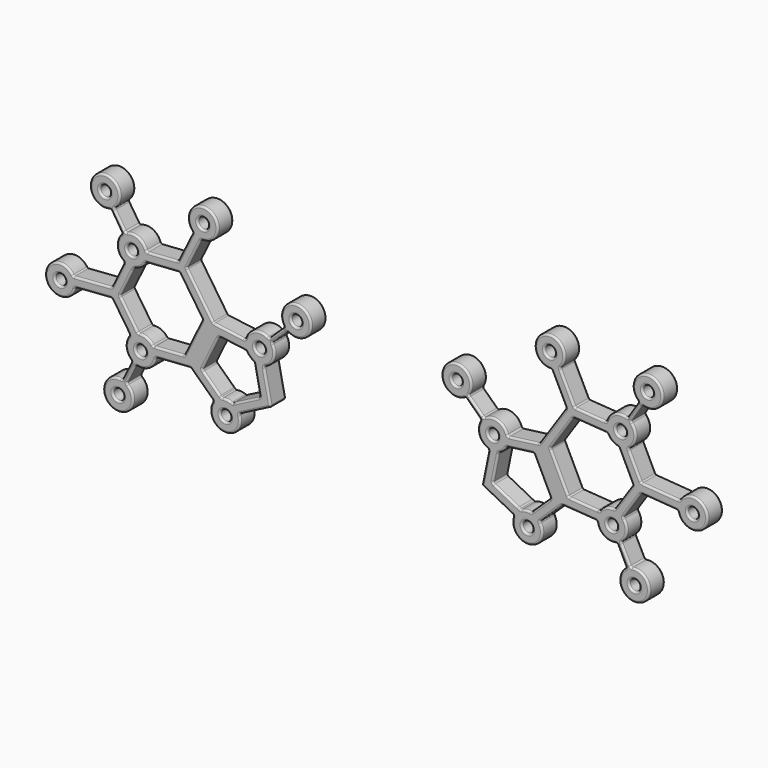
from build123d import *

# Parameters (mm, degrees)
F0_R     = 0.704965505
F1_DEPTH = 2.54
F2_DEPTH = 2.54
F3_R     = 0.254
F3_2_R   = 0.254


with BuildPart() as f1:
    # F0 (on Front) → F1 (new body)
    with BuildSketch(Plane.XZ):
        with BuildLine():
            Line((-29.0546179845, 20.0484573545), (-24.4870673378, 20.3635666822))
            Line((-24.4870673378, 20.3635666822), (-21.4639846236, 17.4907874316))
            ThreePointArc((-21.4639846236, 17.4907874316), (-20.1111106316, 14.3380148568), (-18.0853251368, 17.1068478376))
            Line((-18.0853251368, 17.1068478376), (-13.9003973454, 19.2569047213))
            Line((-13.9003973454, 19.2569047213), (-14.8002809236, 23.6813351185))
            ThreePointArc((-14.8002809236, 23.6813351185), (-13.4840307812, 24.9492545136), (-13.7715209386, 26.7541044905))
            Line((-13.7715209386, 26.7541044905), (-11.7185432825, 28.7257985383))
            ThreePointArc((-11.7185432825, 28.7257985383), (-9.1898139929, 31.7482130115), (-12.1061851962, 29.0978847163))
            Line((-12.1061851962, 29.0978847163), (-14.1473321742, 27.1375529342))
            ThreePointArc((-14.1473321742, 27.1375529342), (-16.0227457961, 27.4355759245), (-17.2825167385, 26.014670886))
            Line((-17.2825167385, 26.014670886), (-21.4583833257, 26.5586029436))
            Line((-21.4583833257, 26.5586029436), (-24.9750111076, 31.7827321961))
            Line((-24.9750111076, 31.7827321961), (-23.049601348, 35.6694080957))
            ThreePointArc((-23.049601348, 35.6694080957), (-22.021105402, 39.4328639982), (-24.1605624178, 36.1703300262))
            Line((-24.1605624178, 36.1703300262), (-26.1158296493, 32.2233831553))
            Line((-26.1158296493, 32.2233831553), (-30.2684896427, 31.9368965896))
            ThreePointArc((-30.2684896427, 31.9368965896), (-31.3282269677, 33.2519979714), (-33.0171054253, 33.2669778887))
            ThreePointArc((-33.0171054253, 33.2669778887), (-33.256062613, 33.1358074968), (-33.4746822584, 32.9729834816))
            ThreePointArc((-33.4746822584, 32.9729834816), (-34.1553853318, 31.2957471273), (-33.1838735227, 29.7684477897))
            Line((-33.1838735227, 29.7684477897), (-34.8542202142, 26.3518291258))
            Line((-34.8542202142, 26.3518291258), (-39.9217636031, 25.9722335116))
            ThreePointArc((-39.9217636031, 25.9722335116), (-43.5800368557, 24.6330217897), (-39.6850516367, 24.7074621736))
            Line((-39.6850516367, 24.7074621736), (-34.8542202142, 25.070198792))
            Line((-34.8542202142, 25.070198792), (-32.4748710478, 21.5355547088))
            ThreePointArc((-32.4748710478, 21.5355547088), (-32.9903716251, 20.0103275207), (-32.1991963938, 18.6081504372))
            Line((-32.1991963938, 18.6081504372), (-33.4820382589, 16.0704123418))
            ThreePointArc((-33.4820382589, 16.0704123418), (-34.783384257, 12.3548348603), (-32.8975393524, 15.8106424973))
            Line((-32.8975393524, 15.8106424973), (-31.6654895103, 18.3275733099))
            ThreePointArc((-31.6654895103, 18.3275733099), (-29.9372170578, 18.5465007129), (-29.0546179845, 20.0484573545))
        make_face()
        with Locations((-33.9812934399, 14.1595909372)):
            Circle(F0_R, mode=Mode.SUBTRACT)
        with Locations((-19.8881171548, 16.3003522604)):
            Circle(F0_R, mode=Mode.SUBTRACT)
        with Locations((-31.0241039842, 20.195491612)):
            Circle(F0_R, mode=Mode.SUBTRACT)
        with Locations((-41.63877666, 24.9963440001)):
            Circle(F0_R, mode=Mode.SUBTRACT)
        with BuildLine():
            Line((-22.9370217788, 20.6425594324), (-20.718015255, 25.1814369859))
            Line((-20.718015255, 25.1814369859), (-17.4430944579, 24.7548586051))
            Line((-17.4430944579, 24.7548586051), (-17.1339008299, 24.7145842518))
            ThreePointArc((-17.1339008299, 24.7145842518), (-16.7108197065, 24.1384913383), (-16.1103942981, 23.750715616))
            Line((-16.1103942981, 23.750715616), (-16.0663684245, 23.5342549337))
            Line((-16.0663684245, 23.5342549337), (-15.3367139519, 19.9467848362))
            Line((-15.3367139519, 19.9467848362), (-18.6656891957, 18.2364838476))
            Line((-18.6656891957, 18.2364838476), (-19.0003562418, 18.0645446358))
            ThreePointArc((-19.0003562418, 18.0645446358), (-19.6768797316, 18.2639899375), (-20.3803440868, 18.2129961957))
            Line((-20.3803440868, 18.2129961957), (-20.5891363814, 18.4114076282))
            Line((-20.5891363814, 18.4114076282), (-22.9370217788, 20.6425594324))
        make_face(mode=Mode.SUBTRACT)
        with Locations((-15.356823802, 25.5762636662)):
            Circle(F0_R, mode=Mode.SUBTRACT)
        with BuildLine():
            Line((-33.7541915634, 25.7103296629), (-33.7132706146, 25.7940316142))
            Line((-33.7132706146, 25.7940316142), (-32.0429239231, 29.2106502781))
            Line((-32.0429239231, 29.2106502781), (-31.8907859632, 29.521841599))
            ThreePointArc((-31.8907859632, 29.521841599), (-30.997520947, 29.8987843289), (-30.3912787721, 30.6554075087))
            Line((-30.3912787721, 30.6554075087), (-29.7189337303, 30.7017917112))
            Line((-29.7189337303, 30.7017917112), (-26.0284218183, 30.956395287))
            Line((-26.0284218183, 30.956395287), (-25.9531887865, 30.9615855151))
            Line((-25.9531887865, 30.9615855151), (-22.9213756308, 26.4576730235))
            Line((-22.9213756308, 26.4576730235), (-25.3059713651, 21.5800902239))
            Line((-25.3059713651, 21.5800902239), (-29.1420258592, 21.3154458562))
            Line((-29.1420258592, 21.3154458562), (-29.3859330238, 21.2986190209))
            ThreePointArc((-29.3859330238, 21.2986190209), (-30.2450652918, 22.0103174691), (-31.352783862, 22.142916505))
            Line((-31.352783862, 22.142916505), (-31.4213307564, 22.2447463996))
            Line((-31.4213307564, 22.2447463996), (-33.7541915634, 25.7103296629))
        make_face(mode=Mode.SUBTRACT)
        with Locations((-32.1885008852, 31.4742401242)):
            Circle(F0_R, mode=Mode.SUBTRACT)
        with Locations((-10.557445662, 30.3234050266)):
            Circle(F0_R, mode=Mode.SUBTRACT)
        with Locations((-22.8328952923, 37.6324497819)):
            Circle(F0_R, mode=Mode.SUBTRACT)
        with BuildLine():
            Line((-34.9912227726, 35.3558069899), (-33.4746822584, 32.9729834816))
            ThreePointArc((-33.4746822584, 32.9729834816), (-33.256062613, 33.1358074968), (-33.0171054253, 33.2669778887))
            Line((-33.0171054253, 33.2669778887), (-34.5458262179, 35.609323968))
            ThreePointArc((-34.5458262179, 35.609323968), (-36.7141964351, 38.9008595325), (-34.9912227726, 35.3558069899))
        make_face()
        with Locations((-35.7372313738, 37.184458226)):
            Circle(F0_R, mode=Mode.SUBTRACT)
    extrude(amount=F1_DEPTH)

    # F3#2
    f3_2_edges = [f1.edges().sort_by_distance(p)[0] for p in [
        (-13.771521, -1.27, 26.754104),
        (-11.718543, -1.27, 28.725799),
        (-12.745032, 0, 27.739952),
        (-12.745032, -2.54, 27.739952),
        (-31.352784, -1.27, 22.142917),
        (-33.754192, -1.27, 25.71033),
        (-32.553488, 0, 23.926623),
        (-32.553488, -2.54, 23.926623),
        (-25.953189, -1.27, 30.961586),
        (-22.921376, -1.27, 26.457673),
        (-24.437282, 0, 28.709629),
        (-24.437282, -2.54, 28.709629),
        (-34.991223, -1.27, 35.355807),
        (-33.474682, -1.27, 32.972983),
        (-34.232953, 0, 34.164395),
        (-34.232953, -2.54, 34.164395),
        (-12.106185, -1.27, 29.097885),
        (-14.147332, -1.27, 27.137553),
        (-13.126759, 0, 28.117719),
        (-13.126759, -2.54, 28.117719),
        (-25.305971, -1.27, 21.58009),
        (-29.385933, -1.27, 21.298619),
        (-27.345952, 0, 21.439355),
        (-27.345952, -2.54, 21.439355),
        (-33.017105, -1.27, 33.266978),
        (-34.545826, -1.27, 35.609324),
        (-33.781466, 0, 34.438151),
        (-33.781466, -2.54, 34.438151),
        (-24.113673, 0, 24.018882),
        (-24.113673, -2.54, 24.018882),
        (-19.000356, -1.27, 18.064545),
        (-20.380344, -1.27, 18.212996),
        (-19.67688, 0, 18.26399),
        (-19.67688, -2.54, 18.26399),
        (-32.199196, -1.27, 18.60815),
        (-33.482038, -1.27, 16.070412),
        (-32.840617, 0, 17.339281),
        (-32.840617, -2.54, 17.339281),
        (-31.890786, -1.27, 29.521842),
        (-32.822489, 0, 27.616086),
        (-32.822489, -2.54, 27.616086),
        (-39.685052, -1.27, 24.707462),
        (-34.85422, -1.27, 25.070199),
        (-37.269636, 0, 24.88883),
        (-37.269636, -2.54, 24.88883),
        (-31.483535, -1.27, 31.47424),
        (-32.893466, 0, 31.47424),
        (-32.893466, -2.54, 31.47424),
        (-21.463985, -1.27, 17.490787),
        (-18.085325, -1.27, 17.106848),
        (-20.111111, 0, 14.338015),
        (-20.111111, -2.54, 14.338015),
        (-17.282517, -1.27, 26.014671),
        (-16.022746, 0, 27.435576),
        (-16.022746, -2.54, 27.435576),
        (-32.897539, -1.27, 15.810642),
        (-31.66549, -1.27, 18.327573),
        (-32.281514, 0, 17.069108),
        (-32.281514, -2.54, 17.069108),
        (-30.391279, -1.27, 30.655408),
        (-28.172234, 0, 30.808497),
        (-28.172234, -2.54, 30.808497),
        (-22.12793, -1.27, 37.63245),
        (-23.537861, 0, 37.63245),
        (-23.537861, -2.54, 37.63245),
        (-32.474871, -1.27, 21.535555),
        (-32.990372, 0, 20.010328),
        (-32.990372, -2.54, 20.010328),
        (-24.975011, -1.27, 31.782732),
        (-23.049601, -1.27, 35.669408),
        (-24.012306, 0, 33.72607),
        (-24.012306, -2.54, 33.72607),
        (-34.85422, -1.27, 26.351829),
        (-39.921764, -1.27, 25.972234),
        (-37.387992, 0, 26.162031),
        (-37.387992, -2.54, 26.162031),
        (-35.032266, -1.27, 37.184458),
        (-36.442197, 0, 37.184458),
        (-36.442197, -2.54, 37.184458),
        (-17.133901, -1.27, 24.714584),
        (-16.110394, -1.27, 23.750716),
        (-16.71082, 0, 24.138491),
        (-16.71082, -2.54, 24.138491),
        (-24.160562, -1.27, 36.17033),
        (-26.11583, -1.27, 32.223383),
        (-25.138196, 0, 34.196857),
        (-25.138196, -2.54, 34.196857),
        (-9.85248, -1.27, 30.323405),
        (-11.262411, 0, 30.323405),
        (-11.262411, -2.54, 30.323405),
        (-30.245065, 0, 22.010317),
        (-30.245065, -2.54, 22.010317),
        (-34.019047, -2.54, 28.060138),
        (-15.336714, -1.27, 19.946785),
        (-15.723554, 0, 21.84875),
        (-15.723554, -2.54, 21.84875),
        (-30.319138, -1.27, 20.195492),
        (-31.729069, 0, 20.195492),
        (-31.729069, -2.54, 20.195492),
        (-22.021105, 0, 39.432864),
        (-22.021105, -2.54, 39.432864),
        (-9.189814, 0, 31.748213),
        (-9.189814, -2.54, 31.748213),
        (-14.651858, -1.27, 25.576264),
        (-16.061789, 0, 25.576264),
        (-16.061789, -2.54, 25.576264),
        (-30.997521, 0, 29.898784),
        (-30.997521, -2.54, 29.898784),
        (-19.183152, -1.27, 16.300352),
        (-20.593083, 0, 16.300352),
        (-20.593083, -2.54, 16.300352),
        (-20.718015, -1.27, 25.181437),
        (-18.925958, 0, 24.948011),
        (-18.925958, -2.54, 24.948011),
        (-36.714196, 0, 38.90086),
        (-36.714196, -2.54, 38.90086),
        (-40.933811, -1.27, 24.996344),
        (-42.343742, 0, 24.996344),
        (-42.343742, -2.54, 24.996344),
        (-22.937022, -1.27, 20.642559),
        (-21.658683, 0, 19.427778),
        (-21.658683, -2.54, 19.427778),
        (-29.054618, -1.27, 20.048457),
        (-29.937217, 0, 18.546501),
        (-29.937217, -2.54, 18.546501),
        (-21.827519, 0, 22.911998),
        (-21.827519, -2.54, 22.911998),
        (-21.458383, -1.27, 26.558603),
        (-19.37045, 0, 26.286637),
        (-19.37045, -2.54, 26.286637),
        (-13.900397, -1.27, 19.256905),
        (-14.800281, -1.27, 23.681335),
        (-14.350339, 0, 21.46912),
        (-14.350339, -2.54, 21.46912),
        (-24.487067, -1.27, 20.363567),
        (-22.975526, 0, 18.927177),
        (-22.975526, -2.54, 18.927177),
        (-33.183874, -1.27, 29.768448),
        (-34.019047, 0, 28.060138),
        (-26.770843, 0, 20.206012),
        (-26.770843, -2.54, 20.206012),
        (-34.783384, -2.54, 12.354835),
        (-15.992861, -2.54, 18.181876),
        (-13.484031, -2.54, 24.949255),
        (-23.216697, -2.54, 29.170668),
        (-28.19216, -2.54, 32.08014),
        (-31.328227, -2.54, 33.251998),
        (-34.155385, -2.54, 31.295747),
        (-43.580037, -2.54, 24.633022),
        (-33.664546, -2.54, 23.302877),
        (-34.686259, -2.54, 14.159591),
        (-17.168535, -2.54, 19.005665),
        (-30.26849, -1.27, 31.936897),
        (-31.328227, 0, 33.251998),
        (-28.19216, 0, 32.08014),
        (-23.216697, 0, 29.170668),
        (-33.664546, 0, 23.302877),
        (-43.580037, 0, 24.633022),
        (-34.155385, 0, 31.295747),
        (-34.783384, 0, 12.354835),
        (-33.276328, -1.27, 14.159591),
        (-34.686259, 0, 14.159591),
        (-17.168535, 0, 19.005665),
        (-13.484031, 0, 24.949255),
        (-15.992861, 0, 18.181876),
    ]]
    fillet(f3_2_edges, radius=F3_2_R)


with BuildPart() as f1b:
    # F0 (on Front) → F1, piece 2 (new body)
    with BuildSketch(Plane.XZ):
        with BuildLine():
            ThreePointArc((33.0171054253, 33.2669778887), (31.3282269677, 33.2519979714), (30.2684896427, 31.9368965896))
            Line((30.2684896427, 31.9368965896), (26.1158296493, 32.2233831553))
            Line((26.1158296493, 32.2233831553), (24.1605624178, 36.1703300262))
            ThreePointArc((24.1605624178, 36.1703300262), (22.021105402, 39.4328639982), (23.049601348, 35.6694080957))
            Line((23.049601348, 35.6694080957), (24.9750111076, 31.7827321961))
            Line((24.9750111076, 31.7827321961), (21.4583833257, 26.5586029436))
            Line((21.4583833257, 26.5586029436), (17.2825167385, 26.014670886))
            ThreePointArc((17.2825167385, 26.014670886), (16.0227457961, 27.4355759245), (14.1473321742, 27.1375529342))
            Line((14.1473321742, 27.1375529342), (12.1061851962, 29.0978847163))
            ThreePointArc((12.1061851962, 29.0978847163), (9.1898139929, 31.7482130115), (11.7185432825, 28.7257985383))
            Line((11.7185432825, 28.7257985383), (13.7715209386, 26.7541044905))
            ThreePointArc((13.7715209386, 26.7541044905), (13.4840307812, 24.9492545136), (14.8002809236, 23.6813351185))
            Line((14.8002809236, 23.6813351185), (13.9003973454, 19.2569047213))
            Line((13.9003973454, 19.2569047213), (18.0853251368, 17.1068478376))
            ThreePointArc((18.0853251368, 17.1068478376), (20.1111106316, 14.3380148568), (21.4639846236, 17.4907874316))
            Line((21.4639846236, 17.4907874316), (24.4870673378, 20.3635666822))
            Line((24.4870673378, 20.3635666822), (29.0546179845, 20.0484573545))
            ThreePointArc((29.0546179845, 20.0484573545), (29.9372170578, 18.5465007129), (31.6654895103, 18.3275733099))
            Line((31.6654895103, 18.3275733099), (32.8975393524, 15.8106424973))
            ThreePointArc((32.8975393524, 15.8106424973), (34.783384257, 12.3548348603), (33.4820382589, 16.0704123418))
            Line((33.4820382589, 16.0704123418), (32.1991963938, 18.6081504372))
            ThreePointArc((32.1991963938, 18.6081504372), (32.9903716251, 20.0103275207), (32.4748710478, 21.5355547088))
            Line((32.4748710478, 21.5355547088), (34.8542202142, 25.070198792))
            Line((34.8542202142, 25.070198792), (39.6850516367, 24.7074621736))
            ThreePointArc((39.6850516367, 24.7074621736), (43.5800368557, 24.6330217897), (39.9217636031, 25.9722335116))
            Line((39.9217636031, 25.9722335116), (34.8542202142, 26.3518291258))
            Line((34.8542202142, 26.3518291258), (33.1838735227, 29.7684477897))
            ThreePointArc((33.1838735227, 29.7684477897), (34.1553853318, 31.2957471273), (33.4746822584, 32.9729834816))
            ThreePointArc((33.4746822584, 32.9729834816), (33.256062613, 33.1358074968), (33.0171054253, 33.2669778887))
        make_face()
        with Locations((19.8881171548, 16.3003522604)):
            Circle(F0_R, mode=Mode.SUBTRACT)
        with Locations((33.9812934399, 14.1595909372)):
            Circle(F0_R, mode=Mode.SUBTRACT)
        with BuildLine():
            ThreePointArc((20.3803440868, 18.2129961957), (19.6768797316, 18.2639899375), (19.0003562418, 18.0645446358))
            Line((19.0003562418, 18.0645446358), (18.6656891957, 18.2364838476))
            Line((18.6656891957, 18.2364838476), (15.3367139519, 19.9467848362))
            Line((15.3367139519, 19.9467848362), (16.0663684245, 23.5342549337))
            Line((16.0663684245, 23.5342549337), (16.1103942981, 23.750715616))
            ThreePointArc((16.1103942981, 23.750715616), (16.7108197065, 24.1384913383), (17.1339008299, 24.7145842518))
            Line((17.1339008299, 24.7145842518), (17.4430944579, 24.7548586051))
            Line((17.4430944579, 24.7548586051), (20.718015255, 25.1814369859))
            Line((20.718015255, 25.1814369859), (22.9370217788, 20.6425594324))
            Line((22.9370217788, 20.6425594324), (20.5891363814, 18.4114076282))
            Line((20.5891363814, 18.4114076282), (20.3803440868, 18.2129961957))
        make_face(mode=Mode.SUBTRACT)
        with Locations((15.356823802, 25.5762636662)):
            Circle(F0_R, mode=Mode.SUBTRACT)
        with Locations((31.0241039842, 20.195491612)):
            Circle(F0_R, mode=Mode.SUBTRACT)
        with Locations((41.63877666, 24.9963440001)):
            Circle(F0_R, mode=Mode.SUBTRACT)
        with Locations((10.557445662, 30.3234050266)):
            Circle(F0_R, mode=Mode.SUBTRACT)
        with BuildLine():
            Line((33.7541915634, 25.7103296629), (31.4213307564, 22.2447463996))
            Line((31.4213307564, 22.2447463996), (31.352783862, 22.142916505))
            ThreePointArc((31.352783862, 22.142916505), (30.2450652918, 22.0103174691), (29.3859330238, 21.2986190209))
            Line((29.3859330238, 21.2986190209), (29.1420258592, 21.3154458562))
            Line((29.1420258592, 21.3154458562), (25.3059713651, 21.5800902239))
            Line((25.3059713651, 21.5800902239), (22.9213756308, 26.4576730235))
            Line((22.9213756308, 26.4576730235), (25.9531887865, 30.9615855151))
            Line((25.9531887865, 30.9615855151), (26.0284218183, 30.956395287))
            Line((26.0284218183, 30.956395287), (29.7189337303, 30.7017917112))
            Line((29.7189337303, 30.7017917112), (30.3912787721, 30.6554075087))
            ThreePointArc((30.3912787721, 30.6554075087), (30.997520947, 29.8987843289), (31.8907859632, 29.521841599))
            Line((31.8907859632, 29.521841599), (32.0429239231, 29.2106502781))
            Line((32.0429239231, 29.2106502781), (33.7132706146, 25.7940316142))
            Line((33.7132706146, 25.7940316142), (33.7541915634, 25.7103296629))
        make_face(mode=Mode.SUBTRACT)
        with Locations((32.1885008852, 31.4742401242)):
            Circle(F0_R, mode=Mode.SUBTRACT)
        with Locations((22.8328952923, 37.6324497819)):
            Circle(F0_R, mode=Mode.SUBTRACT)
        with BuildLine():
            Line((34.5458262179, 35.609323968), (33.0171054253, 33.2669778887))
            ThreePointArc((33.0171054253, 33.2669778887), (33.256062613, 33.1358074968), (33.4746822584, 32.9729834816))
            Line((33.4746822584, 32.9729834816), (34.9912227726, 35.3558069899))
            ThreePointArc((34.9912227726, 35.3558069899), (36.7141964351, 38.9008595325), (34.5458262179, 35.609323968))
        make_face()
        with Locations((35.7372313738, 37.184458226)):
            Circle(F0_R, mode=Mode.SUBTRACT)
    extrude(amount=F1_DEPTH)

    # F3
    f3_edges = [f1b.edges().sort_by_distance(p)[0] for p in [
        (17.282517, -1.27, 26.014671),
        (14.147332, -1.27, 27.137553),
        (16.022746, 0, 27.435576),
        (16.022746, -2.54, 27.435576),
        (36.442197, -1.27, 37.184458),
        (35.032266, 0, 37.184458),
        (35.032266, -2.54, 37.184458),
        (23.049601, -1.27, 35.669408),
        (24.975011, -1.27, 31.782732),
        (24.012306, 0, 33.72607),
        (24.012306, -2.54, 33.72607),
        (22.937022, -1.27, 20.642559),
        (20.380344, -1.27, 18.212996),
        (21.658683, 0, 19.427778),
        (21.658683, -2.54, 19.427778),
        (26.11583, -1.27, 32.223383),
        (24.160562, -1.27, 36.17033),
        (25.138196, 0, 34.196857),
        (25.138196, -2.54, 34.196857),
        (33.482038, -1.27, 16.070412),
        (32.199196, -1.27, 18.60815),
        (32.840617, 0, 17.339281),
        (32.840617, -2.54, 17.339281),
        (32.474871, -1.27, 21.535555),
        (34.85422, -1.27, 25.070199),
        (33.664546, 0, 23.302877),
        (33.664546, -2.54, 23.302877),
        (23.537861, -1.27, 37.63245),
        (22.12793, 0, 37.63245),
        (22.12793, -2.54, 37.63245),
        (34.85422, -1.27, 26.351829),
        (33.183874, -1.27, 29.768448),
        (34.019047, 0, 28.060138),
        (34.019047, -2.54, 28.060138),
        (30.391279, -1.27, 30.655408),
        (31.890786, -1.27, 29.521842),
        (30.997521, 0, 29.898784),
        (30.997521, -2.54, 29.898784),
        (42.343742, -1.27, 24.996344),
        (40.933811, 0, 24.996344),
        (40.933811, -2.54, 24.996344),
        (32.822489, -2.54, 27.616086),
        (15.992861, -2.54, 18.181876),
        (33.754192, -1.27, 25.71033),
        (32.822489, 0, 27.616086),
        (13.771521, -1.27, 26.754104),
        (14.800281, -1.27, 23.681335),
        (13.484031, 0, 24.949255),
        (13.484031, -2.54, 24.949255),
        (15.336714, -1.27, 19.946785),
        (16.110394, -1.27, 23.750716),
        (15.723554, 0, 21.84875),
        (15.723554, -2.54, 21.84875),
        (39.685052, -1.27, 24.707462),
        (37.269636, 0, 24.88883),
        (37.269636, -2.54, 24.88883),
        (25.305971, -1.27, 21.58009),
        (22.921376, -1.27, 26.457673),
        (24.113673, 0, 24.018882),
        (24.113673, -2.54, 24.018882),
        (16.061789, -1.27, 25.576264),
        (14.651858, 0, 25.576264),
        (14.651858, -2.54, 25.576264),
        (33.017105, -1.27, 33.266978),
        (30.26849, -1.27, 31.936897),
        (31.328227, 0, 33.251998),
        (31.328227, -2.54, 33.251998),
        (11.718543, -1.27, 28.725799),
        (12.745032, 0, 27.739952),
        (12.745032, -2.54, 27.739952),
        (28.19216, 0, 32.08014),
        (28.19216, -2.54, 32.08014),
        (21.827519, -2.54, 22.911998),
        (32.990372, 0, 20.010328),
        (32.990372, -2.54, 20.010328),
        (17.133901, -1.27, 24.714584),
        (16.71082, 0, 24.138491),
        (16.71082, -2.54, 24.138491),
        (20.593083, -1.27, 16.300352),
        (19.183152, 0, 16.300352),
        (19.183152, -2.54, 16.300352),
        (33.474682, -1.27, 32.972983),
        (34.155385, 0, 31.295747),
        (34.155385, -2.54, 31.295747),
        (23.216697, -2.54, 29.170668),
        (34.991223, -1.27, 35.355807),
        (34.232953, 0, 34.164395),
        (34.232953, -2.54, 34.164395),
        (24.487067, -1.27, 20.363567),
        (29.054618, -1.27, 20.048457),
        (26.770843, 0, 20.206012),
        (26.770843, -2.54, 20.206012),
        (25.953189, -1.27, 30.961586),
        (24.437282, 0, 28.709629),
        (24.437282, -2.54, 28.709629),
        (39.921764, -1.27, 25.972234),
        (43.580037, 0, 24.633022),
        (43.580037, -2.54, 24.633022),
        (21.463985, -1.27, 17.490787),
        (22.975526, 0, 18.927177),
        (22.975526, -2.54, 18.927177),
        (31.729069, -1.27, 20.195492),
        (30.319138, 0, 20.195492),
        (30.319138, -2.54, 20.195492),
        (31.352784, -1.27, 22.142917),
        (32.553488, 0, 23.926623),
        (32.553488, -2.54, 23.926623),
        (21.458383, -1.27, 26.558603),
        (19.37045, 0, 26.286637),
        (19.37045, -2.54, 26.286637),
        (34.686259, -1.27, 14.159591),
        (33.276328, 0, 14.159591),
        (33.276328, -2.54, 14.159591),
        (12.106185, -1.27, 29.097885),
        (13.126759, 0, 28.117719),
        (13.126759, -2.54, 28.117719),
        (20.718015, -1.27, 25.181437),
        (21.827519, 0, 22.911998),
        (29.385933, -1.27, 21.298619),
        (30.245065, 0, 22.010317),
        (30.245065, -2.54, 22.010317),
        (18.085325, -1.27, 17.106848),
        (20.111111, 0, 14.338015),
        (20.111111, -2.54, 14.338015),
        (37.387992, 0, 26.162031),
        (37.387992, -2.54, 26.162031),
        (19.000356, -1.27, 18.064545),
        (17.168535, 0, 19.005665),
        (17.168535, -2.54, 19.005665),
        (23.216697, 0, 29.170668),
        (9.189814, 0, 31.748213),
        (9.189814, -2.54, 31.748213),
        (27.345952, 0, 21.439355),
        (27.345952, -2.54, 21.439355),
        (22.021105, 0, 39.432864),
        (22.021105, -2.54, 39.432864),
        (28.172234, 0, 30.808497),
        (28.172234, -2.54, 30.808497),
        (13.900397, -1.27, 19.256905),
        (15.992861, 0, 18.181876),
        (32.893466, -1.27, 31.47424),
        (31.483535, 0, 31.47424),
        (31.483535, -2.54, 31.47424),
        (14.350339, 0, 21.46912),
        (14.350339, -2.54, 21.46912),
        (34.545826, -1.27, 35.609324),
        (36.714196, 0, 38.90086),
        (36.714196, -2.54, 38.90086),
        (33.781466, -2.54, 34.438151),
        (29.937217, -2.54, 18.546501),
        (32.281514, -2.54, 17.069108),
        (34.783384, -2.54, 12.354835),
        (19.67688, -2.54, 18.26399),
        (18.925958, -2.54, 24.948011),
        (9.85248, -2.54, 30.323405),
        (18.925958, 0, 24.948011),
        (11.262411, -1.27, 30.323405),
        (9.85248, 0, 30.323405),
        (33.781466, 0, 34.438151),
        (31.66549, -1.27, 18.327573),
        (29.937217, 0, 18.546501),
        (32.897539, -1.27, 15.810642),
        (32.281514, 0, 17.069108),
        (34.783384, 0, 12.354835),
        (19.67688, 0, 18.26399),
    ]]
    fillet(f3_edges, radius=F3_R)


with BuildPart() as f2:
    # F0 (on Front) → F2 (new body)
    with BuildSketch(Plane.XZ):
        with BuildLine():
            Line((-29.0546179845, 20.0484573545), (-24.4870673378, 20.3635666822))
            Line((-24.4870673378, 20.3635666822), (-21.4639846236, 17.4907874316))
            ThreePointArc((-21.4639846236, 17.4907874316), (-20.1111106316, 14.3380148568), (-18.0853251368, 17.1068478376))
            Line((-18.0853251368, 17.1068478376), (-13.9003973454, 19.2569047213))
            Line((-13.9003973454, 19.2569047213), (-14.8002809236, 23.6813351185))
            ThreePointArc((-14.8002809236, 23.6813351185), (-13.4840307812, 24.9492545136), (-13.7715209386, 26.7541044905))
            Line((-13.7715209386, 26.7541044905), (-11.7185432825, 28.7257985383))
            ThreePointArc((-11.7185432825, 28.7257985383), (-9.1898139929, 31.7482130115), (-12.1061851962, 29.0978847163))
            Line((-12.1061851962, 29.0978847163), (-14.1473321742, 27.1375529342))
            ThreePointArc((-14.1473321742, 27.1375529342), (-16.0227457961, 27.4355759245), (-17.2825167385, 26.014670886))
            Line((-17.2825167385, 26.014670886), (-21.4583833257, 26.5586029436))
            Line((-21.4583833257, 26.5586029436), (-24.9750111076, 31.7827321961))
            Line((-24.9750111076, 31.7827321961), (-23.049601348, 35.6694080957))
            ThreePointArc((-23.049601348, 35.6694080957), (-22.021105402, 39.4328639982), (-24.1605624178, 36.1703300262))
            Line((-24.1605624178, 36.1703300262), (-26.1158296493, 32.2233831553))
            Line((-26.1158296493, 32.2233831553), (-30.2684896427, 31.9368965896))
            ThreePointArc((-30.2684896427, 31.9368965896), (-31.3282269677, 33.2519979714), (-33.0171054253, 33.2669778887))
            ThreePointArc((-33.0171054253, 33.2669778887), (-33.256062613, 33.1358074968), (-33.4746822584, 32.9729834816))
            ThreePointArc((-33.4746822584, 32.9729834816), (-34.1553853318, 31.2957471273), (-33.1838735227, 29.7684477897))
            Line((-33.1838735227, 29.7684477897), (-34.8542202142, 26.3518291258))
            Line((-34.8542202142, 26.3518291258), (-39.9217636031, 25.9722335116))
            ThreePointArc((-39.9217636031, 25.9722335116), (-43.5800368557, 24.6330217897), (-39.6850516367, 24.7074621736))
            Line((-39.6850516367, 24.7074621736), (-34.8542202142, 25.070198792))
            Line((-34.8542202142, 25.070198792), (-32.4748710478, 21.5355547088))
            ThreePointArc((-32.4748710478, 21.5355547088), (-32.9903716251, 20.0103275207), (-32.1991963938, 18.6081504372))
            Line((-32.1991963938, 18.6081504372), (-33.4820382589, 16.0704123418))
            ThreePointArc((-33.4820382589, 16.0704123418), (-34.783384257, 12.3548348603), (-32.8975393524, 15.8106424973))
            Line((-32.8975393524, 15.8106424973), (-31.6654895103, 18.3275733099))
            ThreePointArc((-31.6654895103, 18.3275733099), (-29.9372170578, 18.5465007129), (-29.0546179845, 20.0484573545))
        make_face()
        with Locations((-33.9812934399, 14.1595909372)):
            Circle(F0_R, mode=Mode.SUBTRACT)
        with Locations((-19.8881171548, 16.3003522604)):
            Circle(F0_R, mode=Mode.SUBTRACT)
        with Locations((-31.0241039842, 20.195491612)):
            Circle(F0_R, mode=Mode.SUBTRACT)
        with Locations((-41.63877666, 24.9963440001)):
            Circle(F0_R, mode=Mode.SUBTRACT)
        with BuildLine():
            Line((-22.9370217788, 20.6425594324), (-20.718015255, 25.1814369859))
            Line((-20.718015255, 25.1814369859), (-17.4430944579, 24.7548586051))
            Line((-17.4430944579, 24.7548586051), (-17.1339008299, 24.7145842518))
            ThreePointArc((-17.1339008299, 24.7145842518), (-16.7108197065, 24.1384913383), (-16.1103942981, 23.750715616))
            Line((-16.1103942981, 23.750715616), (-16.0663684245, 23.5342549337))
            Line((-16.0663684245, 23.5342549337), (-15.3367139519, 19.9467848362))
            Line((-15.3367139519, 19.9467848362), (-18.6656891957, 18.2364838476))
            Line((-18.6656891957, 18.2364838476), (-19.0003562418, 18.0645446358))
            ThreePointArc((-19.0003562418, 18.0645446358), (-19.6768797316, 18.2639899375), (-20.3803440868, 18.2129961957))
            Line((-20.3803440868, 18.2129961957), (-20.5891363814, 18.4114076282))
            Line((-20.5891363814, 18.4114076282), (-22.9370217788, 20.6425594324))
        make_face(mode=Mode.SUBTRACT)
        with Locations((-15.356823802, 25.5762636662)):
            Circle(F0_R, mode=Mode.SUBTRACT)
        with BuildLine():
            Line((-33.7541915634, 25.7103296629), (-33.7132706146, 25.7940316142))
            Line((-33.7132706146, 25.7940316142), (-32.0429239231, 29.2106502781))
            Line((-32.0429239231, 29.2106502781), (-31.8907859632, 29.521841599))
            ThreePointArc((-31.8907859632, 29.521841599), (-30.997520947, 29.8987843289), (-30.3912787721, 30.6554075087))
            Line((-30.3912787721, 30.6554075087), (-29.7189337303, 30.7017917112))
            Line((-29.7189337303, 30.7017917112), (-26.0284218183, 30.956395287))
            Line((-26.0284218183, 30.956395287), (-25.9531887865, 30.9615855151))
            Line((-25.9531887865, 30.9615855151), (-22.9213756308, 26.4576730235))
            Line((-22.9213756308, 26.4576730235), (-25.3059713651, 21.5800902239))
            Line((-25.3059713651, 21.5800902239), (-29.1420258592, 21.3154458562))
            Line((-29.1420258592, 21.3154458562), (-29.3859330238, 21.2986190209))
            ThreePointArc((-29.3859330238, 21.2986190209), (-30.2450652918, 22.0103174691), (-31.352783862, 22.142916505))
            Line((-31.352783862, 22.142916505), (-31.4213307564, 22.2447463996))
            Line((-31.4213307564, 22.2447463996), (-33.7541915634, 25.7103296629))
        make_face(mode=Mode.SUBTRACT)
        with Locations((-32.1885008852, 31.4742401242)):
            Circle(F0_R, mode=Mode.SUBTRACT)
        with Locations((-10.557445662, 30.3234050266)):
            Circle(F0_R, mode=Mode.SUBTRACT)
        with Locations((-22.8328952923, 37.6324497819)):
            Circle(F0_R, mode=Mode.SUBTRACT)
        with BuildLine():
            Line((-34.9912227726, 35.3558069899), (-33.4746822584, 32.9729834816))
            ThreePointArc((-33.4746822584, 32.9729834816), (-33.256062613, 33.1358074968), (-33.0171054253, 33.2669778887))
            Line((-33.0171054253, 33.2669778887), (-34.5458262179, 35.609323968))
            ThreePointArc((-34.5458262179, 35.609323968), (-36.7141964351, 38.9008595325), (-34.9912227726, 35.3558069899))
        make_face()
        with Locations((-35.7372313738, 37.184458226)):
            Circle(F0_R, mode=Mode.SUBTRACT)
    extrude(amount=F2_DEPTH)


with BuildPart() as f2b:
    # F0 (on Front) → F2, piece 2 (new body)
    with BuildSketch(Plane.XZ):
        with BuildLine():
            ThreePointArc((33.0171054253, 33.2669778887), (31.3282269677, 33.2519979714), (30.2684896427, 31.9368965896))
            Line((30.2684896427, 31.9368965896), (26.1158296493, 32.2233831553))
            Line((26.1158296493, 32.2233831553), (24.1605624178, 36.1703300262))
            ThreePointArc((24.1605624178, 36.1703300262), (22.021105402, 39.4328639982), (23.049601348, 35.6694080957))
            Line((23.049601348, 35.6694080957), (24.9750111076, 31.7827321961))
            Line((24.9750111076, 31.7827321961), (21.4583833257, 26.5586029436))
            Line((21.4583833257, 26.5586029436), (17.2825167385, 26.014670886))
            ThreePointArc((17.2825167385, 26.014670886), (16.0227457961, 27.4355759245), (14.1473321742, 27.1375529342))
            Line((14.1473321742, 27.1375529342), (12.1061851962, 29.0978847163))
            ThreePointArc((12.1061851962, 29.0978847163), (9.1898139929, 31.7482130115), (11.7185432825, 28.7257985383))
            Line((11.7185432825, 28.7257985383), (13.7715209386, 26.7541044905))
            ThreePointArc((13.7715209386, 26.7541044905), (13.4840307812, 24.9492545136), (14.8002809236, 23.6813351185))
            Line((14.8002809236, 23.6813351185), (13.9003973454, 19.2569047213))
            Line((13.9003973454, 19.2569047213), (18.0853251368, 17.1068478376))
            ThreePointArc((18.0853251368, 17.1068478376), (20.1111106316, 14.3380148568), (21.4639846236, 17.4907874316))
            Line((21.4639846236, 17.4907874316), (24.4870673378, 20.3635666822))
            Line((24.4870673378, 20.3635666822), (29.0546179845, 20.0484573545))
            ThreePointArc((29.0546179845, 20.0484573545), (29.9372170578, 18.5465007129), (31.6654895103, 18.3275733099))
            Line((31.6654895103, 18.3275733099), (32.8975393524, 15.8106424973))
            ThreePointArc((32.8975393524, 15.8106424973), (34.783384257, 12.3548348603), (33.4820382589, 16.0704123418))
            Line((33.4820382589, 16.0704123418), (32.1991963938, 18.6081504372))
            ThreePointArc((32.1991963938, 18.6081504372), (32.9903716251, 20.0103275207), (32.4748710478, 21.5355547088))
            Line((32.4748710478, 21.5355547088), (34.8542202142, 25.070198792))
            Line((34.8542202142, 25.070198792), (39.6850516367, 24.7074621736))
            ThreePointArc((39.6850516367, 24.7074621736), (43.5800368557, 24.6330217897), (39.9217636031, 25.9722335116))
            Line((39.9217636031, 25.9722335116), (34.8542202142, 26.3518291258))
            Line((34.8542202142, 26.3518291258), (33.1838735227, 29.7684477897))
            ThreePointArc((33.1838735227, 29.7684477897), (34.1553853318, 31.2957471273), (33.4746822584, 32.9729834816))
            ThreePointArc((33.4746822584, 32.9729834816), (33.256062613, 33.1358074968), (33.0171054253, 33.2669778887))
        make_face()
        with Locations((19.8881171548, 16.3003522604)):
            Circle(F0_R, mode=Mode.SUBTRACT)
        with Locations((33.9812934399, 14.1595909372)):
            Circle(F0_R, mode=Mode.SUBTRACT)
        with BuildLine():
            ThreePointArc((20.3803440868, 18.2129961957), (19.6768797316, 18.2639899375), (19.0003562418, 18.0645446358))
            Line((19.0003562418, 18.0645446358), (18.6656891957, 18.2364838476))
            Line((18.6656891957, 18.2364838476), (15.3367139519, 19.9467848362))
            Line((15.3367139519, 19.9467848362), (16.0663684245, 23.5342549337))
            Line((16.0663684245, 23.5342549337), (16.1103942981, 23.750715616))
            ThreePointArc((16.1103942981, 23.750715616), (16.7108197065, 24.1384913383), (17.1339008299, 24.7145842518))
            Line((17.1339008299, 24.7145842518), (17.4430944579, 24.7548586051))
            Line((17.4430944579, 24.7548586051), (20.718015255, 25.1814369859))
            Line((20.718015255, 25.1814369859), (22.9370217788, 20.6425594324))
            Line((22.9370217788, 20.6425594324), (20.5891363814, 18.4114076282))
            Line((20.5891363814, 18.4114076282), (20.3803440868, 18.2129961957))
        make_face(mode=Mode.SUBTRACT)
        with Locations((15.356823802, 25.5762636662)):
            Circle(F0_R, mode=Mode.SUBTRACT)
        with Locations((31.0241039842, 20.195491612)):
            Circle(F0_R, mode=Mode.SUBTRACT)
        with Locations((41.63877666, 24.9963440001)):
            Circle(F0_R, mode=Mode.SUBTRACT)
        with Locations((10.557445662, 30.3234050266)):
            Circle(F0_R, mode=Mode.SUBTRACT)
        with BuildLine():
            Line((33.7541915634, 25.7103296629), (31.4213307564, 22.2447463996))
            Line((31.4213307564, 22.2447463996), (31.352783862, 22.142916505))
            ThreePointArc((31.352783862, 22.142916505), (30.2450652918, 22.0103174691), (29.3859330238, 21.2986190209))
            Line((29.3859330238, 21.2986190209), (29.1420258592, 21.3154458562))
            Line((29.1420258592, 21.3154458562), (25.3059713651, 21.5800902239))
            Line((25.3059713651, 21.5800902239), (22.9213756308, 26.4576730235))
            Line((22.9213756308, 26.4576730235), (25.9531887865, 30.9615855151))
            Line((25.9531887865, 30.9615855151), (26.0284218183, 30.956395287))
            Line((26.0284218183, 30.956395287), (29.7189337303, 30.7017917112))
            Line((29.7189337303, 30.7017917112), (30.3912787721, 30.6554075087))
            ThreePointArc((30.3912787721, 30.6554075087), (30.997520947, 29.8987843289), (31.8907859632, 29.521841599))
            Line((31.8907859632, 29.521841599), (32.0429239231, 29.2106502781))
            Line((32.0429239231, 29.2106502781), (33.7132706146, 25.7940316142))
            Line((33.7132706146, 25.7940316142), (33.7541915634, 25.7103296629))
        make_face(mode=Mode.SUBTRACT)
        with Locations((32.1885008852, 31.4742401242)):
            Circle(F0_R, mode=Mode.SUBTRACT)
        with Locations((22.8328952923, 37.6324497819)):
            Circle(F0_R, mode=Mode.SUBTRACT)
        with BuildLine():
            Line((34.5458262179, 35.609323968), (33.0171054253, 33.2669778887))
            ThreePointArc((33.0171054253, 33.2669778887), (33.256062613, 33.1358074968), (33.4746822584, 32.9729834816))
            Line((33.4746822584, 32.9729834816), (34.9912227726, 35.3558069899))
            ThreePointArc((34.9912227726, 35.3558069899), (36.7141964351, 38.9008595325), (34.5458262179, 35.609323968))
        make_face()
        with Locations((35.7372313738, 37.184458226)):
            Circle(F0_R, mode=Mode.SUBTRACT)
    extrude(amount=F2_DEPTH)


solid = Compound([f1.part, f1b.part])
